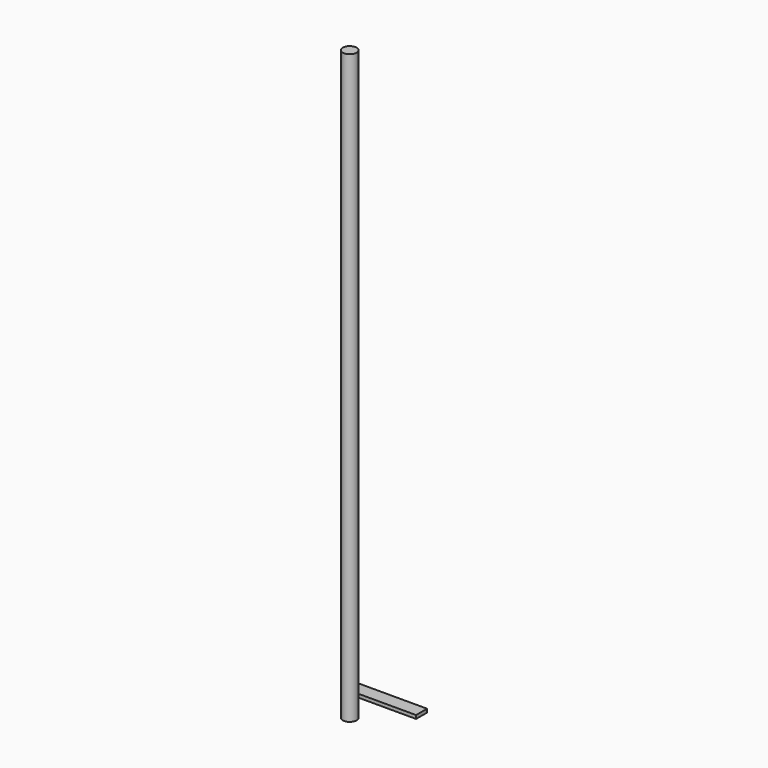
from build123d import *

# Parameters (mm, degrees)
F0_R     = 9.525
F1_DEPTH = 812.8
F0_W     = 101.6
F0_H     = 19.05
F2_DEPTH = 4.7625


with BuildPart() as f1:
    # F0 (on Top) → F1 (new body)
    with BuildSketch(Plane.XY):
        Circle(F0_R)
    extrude(amount=F1_DEPTH)


with BuildPart() as f2:
    # F0 (on Top) → F2 (new body)
    with BuildSketch(Plane.XY):
        with Locations((6.829814, 52.236083)):
            Rectangle(F0_W, F0_H)
    extrude(amount=F2_DEPTH)


solid = Compound([f1.part, f2.part])
